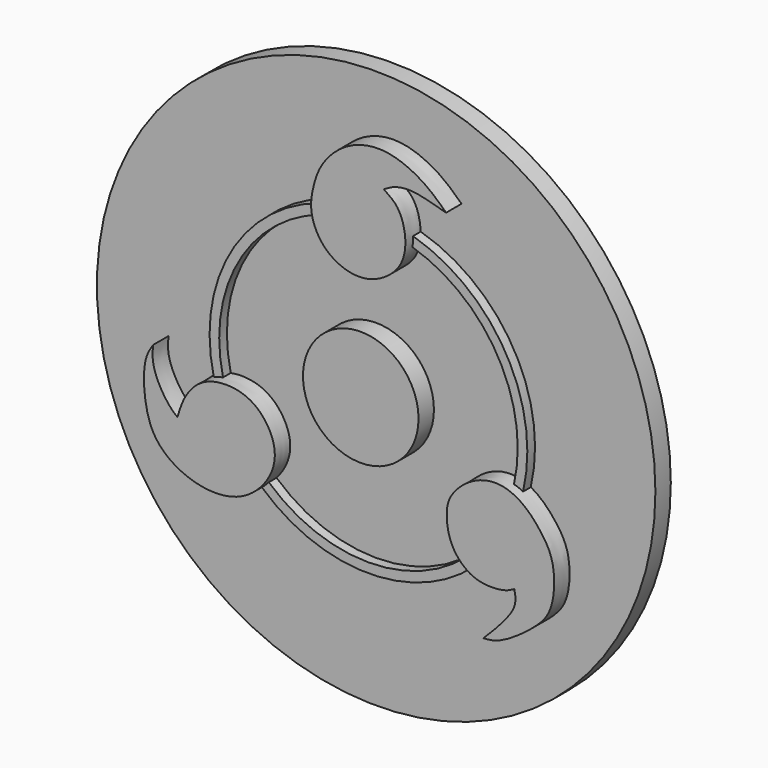
from build123d import *

# Parameters (mm, degrees)
F2_R     = 20.955
F2_R_2   = 19.685
F3_DEPTH = 3.81
F0_R     = 36.83
F4_DEPTH = 2.54
F1_R     = 7.62
F5_DEPTH = 5.08
F7_DEPTH = 5.08


with BuildPart() as f3:
    # F2 (on Front) → F3 (new body)
    with BuildSketch(Plane.XZ):
        Circle(F2_R)
        Circle(F2_R_2, mode=Mode.SUBTRACT)
    extrude(amount=F3_DEPTH)

    # F0 (on Front) → F4 (join)
    with BuildSketch(Plane.XZ):
        Circle(F0_R)
    extrude(amount=F4_DEPTH)

    # F1 (on Front) → F5 (join)
    with BuildSketch(Plane.XZ):
        Circle(F1_R)
    extrude(amount=F5_DEPTH)

    # F6 (on Front) → F7 (join)
    with BuildSketch(Plane.XZ):
        with BuildLine():
            add(Edge.make_bspline(
                [(20.2570147812, -15.6700648367), (19.8961694208, -15.8805236851), (19.0041175108, -16.4008025587), (15.8720621479, -16.559826062), (13.5312359314, -15.4147247099), (11.7272072425, -13.1399714713), (11.2166446038, -10.2137107801), (11.4999702986, -7.6218597128), (14.3865819004, -4.722269119), (18.1587165263, -3.7797428799), (21.4460389306, -5.1940456945), (23.8429017776, -7.8661286141), (25.6734991364, -10.8199724294), (25.5377481708, -16.3390016258), (23.2461494272, -19.2023701616), (18.452391334, -22.5753039632), (16.8043370097, -22.6711036419), (16.1752011627, -22.7076746523)],
                knots=[0, 0, 0, 0, 0.0436885344, 0.1080031639, 0.1676295863, 0.2294719046, 0.2924472264, 0.3509340914, 0.4237263668, 0.4953038566, 0.5634406065, 0.6326971489, 0.7017391482, 0.7852820259, 0.857371763, 0.94555244, 1, 1, 1, 1], degree=3))
            add(Edge.make_bspline(
                [(20.2570147812, -15.6700648367), (20.3829041644, -16.3084867464), (20.6845521254, -17.838231848), (17.9411549431, -20.9485961903), (16.7201363375, -22.1648610522), (16.1752011627, -22.7076746523)],
                knots=[0, 0, 0, 0, 0.2839743748, 0.6804409471, 1, 1, 1, 1], degree=3))
        make_face()
        with BuildLine():
            add(Edge.make_bspline(
                [(3.0488960911, 25.1434091479), (3.7182536947, 24.6990821502), (5.1726496809, 23.7336379712), (6.1241493354, 20.3115195563), (5.5613721245, 16.69225876), (2.0341131265, 13.9757621792), (-1.5557545968, 13.7470005644), (-5.0342055625, 15.5452774991), (-6.8469141166, 19.2212913575), (-6.3055975072, 22.4630575555), (-5.3424365083, 25.5025980603), (-2.1010733373, 28.9284126178), (3.0910934799, 30.2162430426), (8.3134253187, 27.9097705394), (10.3284132794, 25.9855691321), (11.2594394013, 25.0964909792)],
                knots=[0, 0, 0, 0, 0.0616302497, 0.1339116599, 0.2079808628, 0.2881086137, 0.361437359, 0.4374817635, 0.5149936036, 0.5852235295, 0.6550849429, 0.7387987633, 0.8281216337, 0.9205835211, 1, 1, 1, 1], degree=3))
            add(Edge.make_bspline(
                [(11.2594394013, 25.0964909792), (10.5646308324, 25.2820628254), (9.1428071033, 25.6618083644), (6.8452879901, 26.2699311214), (4.5200290319, 26.0390563832), (3.5142351531, 25.4267143698), (3.0488960911, 25.1434091479)],
                knots=[0, 0, 0, 0, 0.2537571195, 0.5192766902, 0.7775892867, 1, 1, 1, 1], degree=3))
        make_face()
        with BuildLine():
            add(Edge.make_bspline(
                [(-27.3906067014, -2.8257619124), (-27.790953611, -3.4332696992), (-28.8075634718, -4.9759278086), (-28.5233011705, -10.9489031163), (-26.5289063724, -14.867132619), (-21.7070990271, -17.5170081944), (-15.8617714826, -17.4320795969), (-11.8371266697, -13.6636122638), (-10.8215735606, -9.3413615315), (-13.4799514164, -5.1719896976), (-17.2969878336, -4.0269277312), (-21.0629413694, -4.6828120412), (-23.3644095401, -7.4279222295), (-23.9139992286, -9.2808253639), (-24.1766812534, -10.1669620555)],
                knots=[0, 0, 0, 0, 0.0636228496, 0.1615589249, 0.2469563528, 0.340002317, 0.4365777254, 0.5291519495, 0.6119248419, 0.6984248894, 0.7782692107, 0.8560101465, 0.9311136098, 0.9999516489, 0.9999516489, 0.9999516489, 0.9999516489], degree=3))
            add(Edge.make_bspline(
                [(-24.1766812534, -10.1669620555), (-24.3509354034, -10.0365492919), (-24.9137715031, -9.5865420103), (-26.1827320151, -8.0804292282), (-27.5785954401, -5.1680066439), (-27.4497008963, -3.5620457329), (-27.3906067014, -2.8257619124)],
                knots=[0.058079573, 0.058079573, 0.058079573, 0.058079573, 0.175325606, 0.4277692031, 0.7376497308, 1, 1, 1, 1], degree=3))
        make_face()
    extrude(amount=F7_DEPTH)


solid = f3.part
